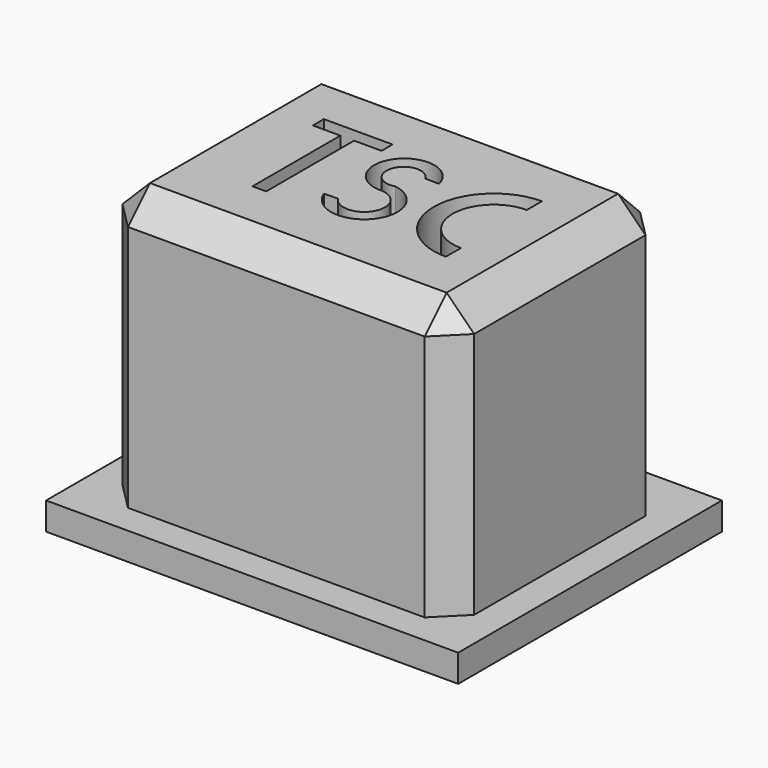
from build123d import *

# Parameters (mm, degrees)
SKETCH_W        = 12.8
SKETCH_H        = 9.8
PAD_DEPTH       = 10
POCKET_DEPTH    = 5
SKETCH002_W     = 15
SKETCH002_H     = 12
PAD001_DEPTH    = 1
CHAMFER_SIZE    = 1
SKETCH003_W     = 3
SKETCH003_H     = 6
POCKET001_DEPTH = 9


with BuildPart() as part:
    # Sketch → Pad (new body)
    with BuildSketch(Plane.XY):
        Rectangle(SKETCH_W, SKETCH_H)
    extrude(amount=PAD_DEPTH)

    # Sketch001 (on Face6 of Pad) → Pocket (cut)
    with BuildSketch(Plane.XY.offset(10)):
        Polygon((-3.99861, 2.2628), (-3.99861, 1.7628), (-2.99861, 1.7628), (-2.99861, -2.2372), (-2.49861, -2.2372), (-2.49861, 1.7628), (-1.49861, 1.7628), (-1.49861, 2.2628), align=None)
        with BuildLine():
            ThreePointArc((1.047539, 1.197216), (-0.867234, 1.635805), (-0.050275, -0.150615))
            ThreePointArc((-0.630407, -1.305236), (0.670164, -1.235647), (-0.050275, -0.150615))
            Line((-1.130407, -1.322386), (-0.630407, -1.305236))
            ThreePointArc((-1.130407, -1.322386), (0.939152, -1.657302), (0.175897, 0.295308))
            ThreePointArc((0.547539, 1.20235), (-0.580104, 1.134721), (0.175897, 0.295308))
            Line((0.547539, 1.20235), (1.047539, 1.197216))
        make_face()
        with BuildLine():
            ThreePointArc((4, 2.186018), (1.813982, 0), (4, -2.186018))
            Line((4, -1.5), (4, -2.186018))
            ThreePointArc((4, 1.5), (2.5, 0), (4, -1.5))
            Line((4, 2.186018), (4, 1.5))
        make_face()
    extrude(amount=-POCKET_DEPTH, mode=Mode.SUBTRACT)

    # Sketch002 (on Face4 of Pocket) → Pad001 (join)
    with BuildSketch(Plane(origin=(0, 0, 0), x_dir=(1, 0, 0), z_dir=(0, 0, -1))):
        Rectangle(SKETCH002_W, SKETCH002_H)
    extrude(amount=PAD001_DEPTH)

    # Chamfer
    chamfer_edges = [part.edges().sort_by_distance(p)[0] for p in [
        (6.4, -4.9, 5),
        (-6.4, -4.9, 5),
        (0, -4.9, 10),
        (-6.4, 0, 10),
        (0, 4.9, 10),
        (6.4, 0, 10),
        (6.4, 4.9, 5),
        (-6.4, 4.9, 5),
    ]]
    chamfer(chamfer_edges, length=CHAMFER_SIZE)

    # Sketch003 (on Face22 of Chamfer) → Pocket001 (cut)
    with BuildSketch(Plane(origin=(0, 0, -1), x_dir=(1, 0, 0), z_dir=(0, 0, -1))):
        with Locations((-3.162799, 0)):
            Rectangle(SKETCH003_W, SKETCH003_H)
        with Locations((3.322114, 0)):
            Rectangle(SKETCH003_W, SKETCH003_H)
    extrude(amount=-POCKET001_DEPTH, mode=Mode.SUBTRACT)


solid = part.part
